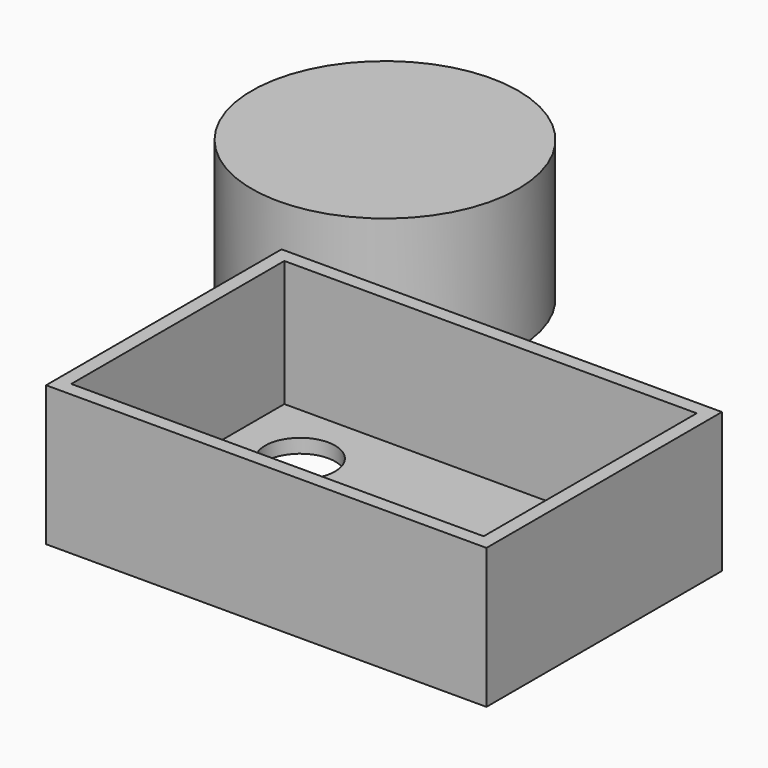
from build123d import *

# Parameters (mm, degrees)
F0_W     = 79.908848
F0_H     = 53.407432
F1_DEPTH = 25.4
F2_T     = -2.54
F4_D     = 12.7
F5_R     = 24.161899
F6_DEPTH = 25.4


with BuildPart() as f1:
    # F0 (on Top) → F1 (new body)
    with BuildSketch(Plane.XY):
        with Locations((-0.303451, -0.910354)):
            Rectangle(F0_W, F0_H)
    extrude(amount=F1_DEPTH)

    # F2
    f2_openings = [f1.faces().sort_by_distance(p)[0] for p in [
        (-0.303451, -0.910354, 25.4),
    ]]
    offset(amount=F2_T, openings=f2_openings)

    # F4 (through all)
    with Locations(Plane.XY.offset(2.54)):
        with Locations((-25.531314, 11.604503), (20.484546, 11.09416), (12.404127, -13.487326), (-15.749754, -13.317212)):
            Hole(F4_D / 2)


with BuildPart() as f6:
    # F5 (on Top) → F6 (new body)
    with BuildSketch(Plane.XY):
        with Locations((-49.801171, 61.188258)):
            Circle(F5_R)
    extrude(amount=F6_DEPTH)


solid = Compound([f1.part, f6.part])
